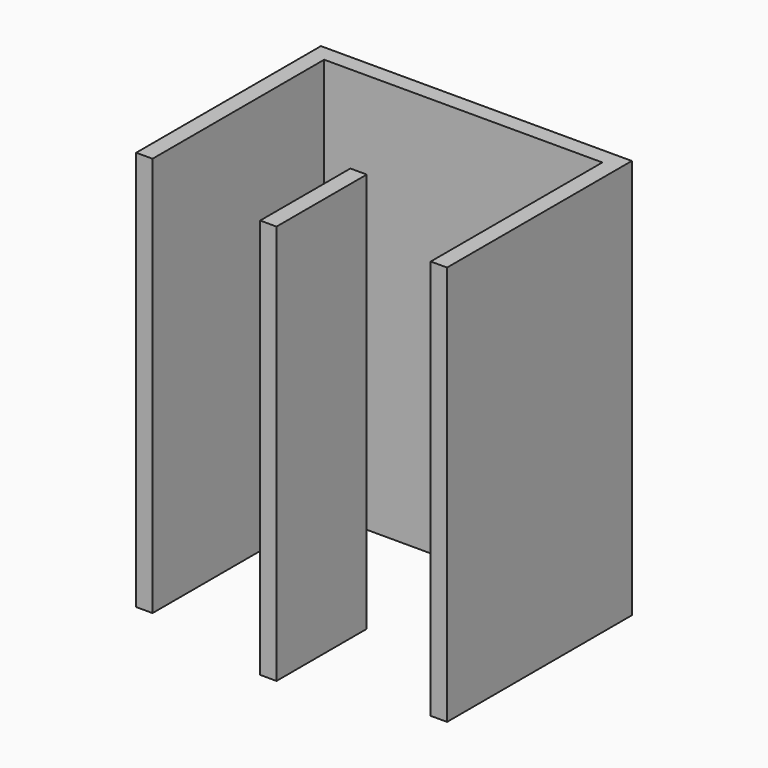
from build123d import *

# Parameters (mm, degrees)
F1_DEPTH = 2794


with BuildPart() as f1:
    # F0 (on Top) → F1 (new body)
    with BuildSketch(Plane.XY):
        Polygon((-648.549602, -977.982418), (-648.549602, 520.617582), (323.000398, 520.617582), (1294.550398, 520.617582), (1294.550398, -977.982418), (1408.850398, -977.982418), (1408.850398, 634.917582), (-762.849602, 634.917582), (-762.849602, -977.982418), align=None)
        Polygon((380.150398, -393.782418), (323.000398, -393.782418), (265.850398, -393.782418), (265.850398, -1181.354523), (380.150398, -1181.354523), align=None)
    extrude(amount=F1_DEPTH)


solid = f1.part
